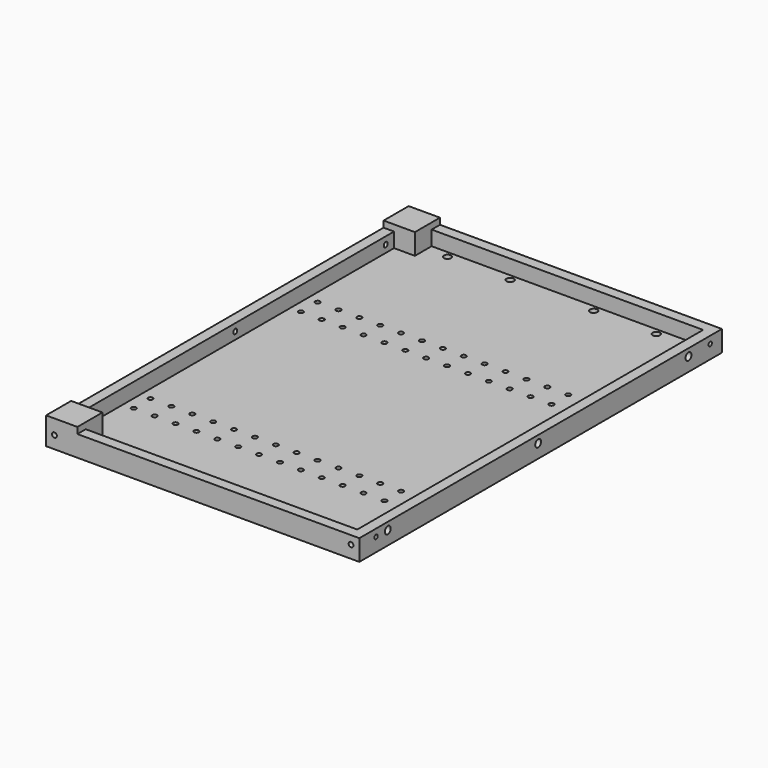
from build123d import *

# Parameters (mm, degrees)
SKETCH_W        = 150
SKETCH_H        = 217
SKETCH_R        = 1.15
SKETCH_R_2      = 1.75
PAD_DEPTH       = 3
SKETCH001_W     = 150
SKETCH001_H     = 217
PAD001_DEPTH    = 7
SKETCH002_R     = 1.75
SKETCH002_R_2   = 1
POCKET_DEPTH    = 5
SKETCH003_R     = 1.15
POCKET001_DEPTH = 7.5
SKETCH004_R     = 1.15
POCKET002_DEPTH = 10
SKETCH005_W     = 15
SKETCH005_H     = 15
PAD002_DEPTH    = 3


with BuildPart() as part:
    # Sketch → Pad (new body)
    with BuildSketch(Plane.XY):
        with Locations((-75, 108.5)):
            Rectangle(SKETCH_W, SKETCH_H)
        with Locations((-140, 40)):
            Circle(SKETCH_R, mode=Mode.SUBTRACT)
        with Locations((-130, 40)):
            Circle(SKETCH_R, mode=Mode.SUBTRACT)
        with Locations((-120, 40)):
            Circle(SKETCH_R, mode=Mode.SUBTRACT)
        with Locations((-110, 40)):
            Circle(SKETCH_R, mode=Mode.SUBTRACT)
        with Locations((-100, 40)):
            Circle(SKETCH_R, mode=Mode.SUBTRACT)
        with Locations((-90, 40)):
            Circle(SKETCH_R, mode=Mode.SUBTRACT)
        with Locations((-80, 40)):
            Circle(SKETCH_R, mode=Mode.SUBTRACT)
        with Locations((-70, 40)):
            Circle(SKETCH_R, mode=Mode.SUBTRACT)
        with Locations((-60, 40)):
            Circle(SKETCH_R, mode=Mode.SUBTRACT)
        with Locations((-50, 40)):
            Circle(SKETCH_R, mode=Mode.SUBTRACT)
        with Locations((-40, 40)):
            Circle(SKETCH_R, mode=Mode.SUBTRACT)
        with Locations((-30, 40)):
            Circle(SKETCH_R, mode=Mode.SUBTRACT)
        with Locations((-20, 40)):
            Circle(SKETCH_R, mode=Mode.SUBTRACT)
        with Locations((-10, 40)):
            Circle(SKETCH_R, mode=Mode.SUBTRACT)
        with Locations((-140, 50)):
            Circle(SKETCH_R, mode=Mode.SUBTRACT)
        with Locations((-130, 50)):
            Circle(SKETCH_R, mode=Mode.SUBTRACT)
        with Locations((-120, 50)):
            Circle(SKETCH_R, mode=Mode.SUBTRACT)
        with Locations((-110, 50)):
            Circle(SKETCH_R, mode=Mode.SUBTRACT)
        with Locations((-100, 50)):
            Circle(SKETCH_R, mode=Mode.SUBTRACT)
        with Locations((-90, 50)):
            Circle(SKETCH_R, mode=Mode.SUBTRACT)
        with Locations((-80, 50)):
            Circle(SKETCH_R, mode=Mode.SUBTRACT)
        with Locations((-70, 50)):
            Circle(SKETCH_R, mode=Mode.SUBTRACT)
        with Locations((-60, 50)):
            Circle(SKETCH_R, mode=Mode.SUBTRACT)
        with Locations((-50, 50)):
            Circle(SKETCH_R, mode=Mode.SUBTRACT)
        with Locations((-40, 50)):
            Circle(SKETCH_R, mode=Mode.SUBTRACT)
        with Locations((-30, 50)):
            Circle(SKETCH_R, mode=Mode.SUBTRACT)
        with Locations((-20, 50)):
            Circle(SKETCH_R, mode=Mode.SUBTRACT)
        with Locations((-10, 50)):
            Circle(SKETCH_R, mode=Mode.SUBTRACT)
        with Locations((-140, 140)):
            Circle(SKETCH_R, mode=Mode.SUBTRACT)
        with Locations((-130, 140)):
            Circle(SKETCH_R, mode=Mode.SUBTRACT)
        with Locations((-120, 140)):
            Circle(SKETCH_R, mode=Mode.SUBTRACT)
        with Locations((-110, 140)):
            Circle(SKETCH_R, mode=Mode.SUBTRACT)
        with Locations((-100, 140)):
            Circle(SKETCH_R, mode=Mode.SUBTRACT)
        with Locations((-90, 140)):
            Circle(SKETCH_R, mode=Mode.SUBTRACT)
        with Locations((-80, 140)):
            Circle(SKETCH_R, mode=Mode.SUBTRACT)
        with Locations((-70, 140)):
            Circle(SKETCH_R, mode=Mode.SUBTRACT)
        with Locations((-60, 140)):
            Circle(SKETCH_R, mode=Mode.SUBTRACT)
        with Locations((-50, 140)):
            Circle(SKETCH_R, mode=Mode.SUBTRACT)
        with Locations((-40, 140)):
            Circle(SKETCH_R, mode=Mode.SUBTRACT)
        with Locations((-30, 140)):
            Circle(SKETCH_R, mode=Mode.SUBTRACT)
        with Locations((-20, 140)):
            Circle(SKETCH_R, mode=Mode.SUBTRACT)
        with Locations((-10, 140)):
            Circle(SKETCH_R, mode=Mode.SUBTRACT)
        with Locations((-140, 150)):
            Circle(SKETCH_R, mode=Mode.SUBTRACT)
        with Locations((-130, 150)):
            Circle(SKETCH_R, mode=Mode.SUBTRACT)
        with Locations((-120, 150)):
            Circle(SKETCH_R, mode=Mode.SUBTRACT)
        with Locations((-110, 150)):
            Circle(SKETCH_R, mode=Mode.SUBTRACT)
        with Locations((-100, 150)):
            Circle(SKETCH_R, mode=Mode.SUBTRACT)
        with Locations((-90, 150)):
            Circle(SKETCH_R, mode=Mode.SUBTRACT)
        with Locations((-80, 150)):
            Circle(SKETCH_R, mode=Mode.SUBTRACT)
        with Locations((-70, 150)):
            Circle(SKETCH_R, mode=Mode.SUBTRACT)
        with Locations((-60, 150)):
            Circle(SKETCH_R, mode=Mode.SUBTRACT)
        with Locations((-50, 150)):
            Circle(SKETCH_R, mode=Mode.SUBTRACT)
        with Locations((-40, 150)):
            Circle(SKETCH_R, mode=Mode.SUBTRACT)
        with Locations((-30, 150)):
            Circle(SKETCH_R, mode=Mode.SUBTRACT)
        with Locations((-20, 150)):
            Circle(SKETCH_R, mode=Mode.SUBTRACT)
        with Locations((-10, 150)):
            Circle(SKETCH_R, mode=Mode.SUBTRACT)
        with Locations((-125, 209)):
            Circle(SKETCH_R_2, mode=Mode.SUBTRACT)
        with Locations((-55, 209)):
            Circle(SKETCH_R_2, mode=Mode.SUBTRACT)
        with Locations((-125, 5)):
            Circle(SKETCH_R_2, mode=Mode.SUBTRACT)
        with Locations((-55, 5)):
            Circle(SKETCH_R_2, mode=Mode.SUBTRACT)
        with Locations((-25, 5)):
            Circle(SKETCH_R_2, mode=Mode.SUBTRACT)
        with Locations((-95, 5)):
            Circle(SKETCH_R_2, mode=Mode.SUBTRACT)
        with Locations((-25, 209)):
            Circle(SKETCH_R_2, mode=Mode.SUBTRACT)
        with Locations((-95, 209)):
            Circle(SKETCH_R_2, mode=Mode.SUBTRACT)
    extrude(amount=PAD_DEPTH)

    # Sketch001 → Pad001 (join)
    with BuildSketch(Plane.XY.offset(3)):
        with Locations((-75, 108.5)):
            Rectangle(SKETCH001_W, SKETCH001_H)
        Polygon((-5, 212), (-135, 212), (-135, 202), (-145, 202), (-145, 15), (-135, 15), (-135, 5), (-5, 5), align=None, mode=Mode.SUBTRACT)
    extrude(amount=PAD001_DEPTH)

    # Sketch002 → Pocket (cut)
    with BuildSketch(Plane.YZ):
        with Locations((17, 6.5)):
            Circle(SKETCH002_R)
        with Locations((107, 6.5)):
            Circle(SKETCH002_R)
        with Locations((197, 6.5)):
            Circle(SKETCH002_R)
        with Locations((10, 6.5)):
            Circle(SKETCH002_R_2)
        with Locations((210, 6.5)):
            Circle(SKETCH002_R_2)
    extrude(amount=-POCKET_DEPTH, mode=Mode.SUBTRACT)

    # Sketch003 → Pocket001 (cut, symmetric)
    with BuildSketch(Plane.YZ.offset(-150)):
        with Locations((107, 6.5)):
            Circle(SKETCH003_R)
        with Locations((17, 6.5)):
            Circle(SKETCH003_R)
        with Locations((197, 6.5)):
            Circle(SKETCH003_R)
    extrude(amount=POCKET001_DEPTH, both=True, mode=Mode.SUBTRACT)

    # Sketch004 → Pocket002 (cut)
    with BuildSketch(Plane.XZ):
        with Locations((-4, 6)):
            Circle(SKETCH004_R)
        with Locations((-146, 6)):
            Circle(SKETCH004_R)
    extrude(amount=-POCKET002_DEPTH, mode=Mode.SUBTRACT)

    # Sketch005 → Pad002 (join)
    with BuildSketch(Plane.XY.offset(10)):
        with Locations((-142.5, 209.5)):
            Rectangle(SKETCH005_W, SKETCH005_H)
        with Locations((-142.5, 7.5)):
            Rectangle(SKETCH005_W, SKETCH005_H)
    extrude(amount=PAD002_DEPTH)


solid = part.part
